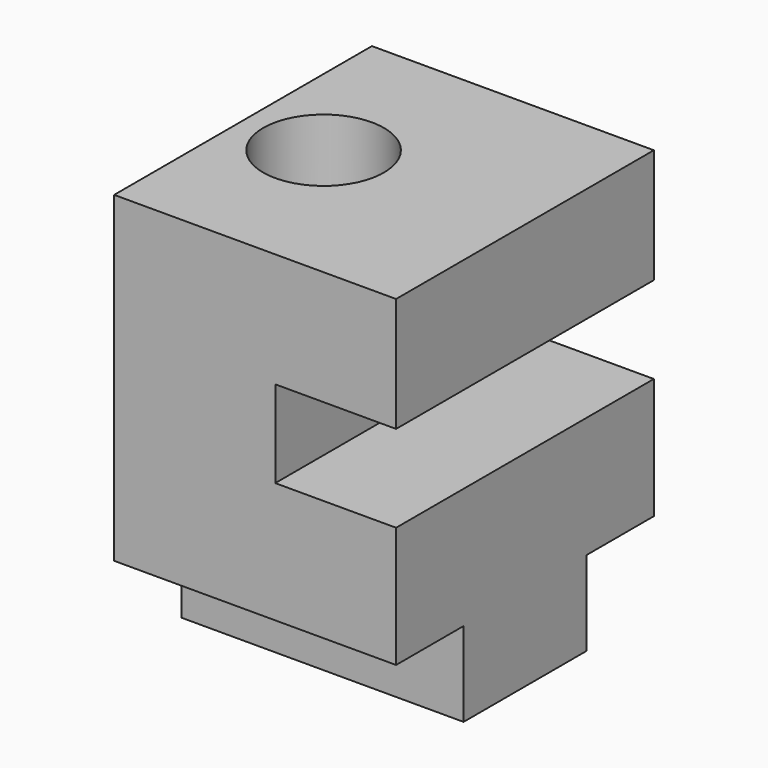
from build123d import *

# Parameters (mm, degrees)
F0_W     = 22.225
F0_H     = 25.4
F1_DEPTH = 12.7
F2_W     = 9.525
F2_H     = 6.858
F6_DEPTH = 25.401
F7_W     = 12.098386
F7_H     = 6.654872
F3_DEPTH = 22.225
F4_DEPTH = 32.055872


with BuildPart() as f1:
    # F0 (on Front) → F1 (new body, symmetric)
    with BuildSketch(Plane.XZ):
        Rectangle(F0_W, F0_H)
    extrude(amount=F1_DEPTH, both=True)

    # F2 (on face) → F6 (cut, through all)
    with BuildSketch(Plane.XZ.offset(12.7)):
        with Locations((6.35, 0.254)):
            Rectangle(F2_W, F2_H)
        with Locations((6.35, 0.254)):
            Rectangle(F2_W, F2_H)
    extrude(amount=-F6_DEPTH, mode=Mode.SUBTRACT)

    # F7 (on face) → F3 (join, through all)
    with BuildSketch(Plane.YZ.offset(11.1125)):
        with Locations((0, -16.027436)):
            Rectangle(F7_W, F7_H)
    extrude(amount=-F3_DEPTH)

    # F8 (on face) → F4 (cut, through all)
    with BuildSketch(Plane.XY.offset(12.7)):
        with BuildLine():
            Line((-9.525, 0), (0, 0))
            ThreePointArc((0, 0), (-4.7625, 4.7625), (-9.525, 0))
        make_face()
        with BuildLine():
            ThreePointArc((-9.525, 0), (-4.7625, -4.7625), (0, 0))
            Line((0, 0), (-9.525, 0))
        make_face()
    extrude(amount=-F4_DEPTH, mode=Mode.SUBTRACT)


solid = f1.part
